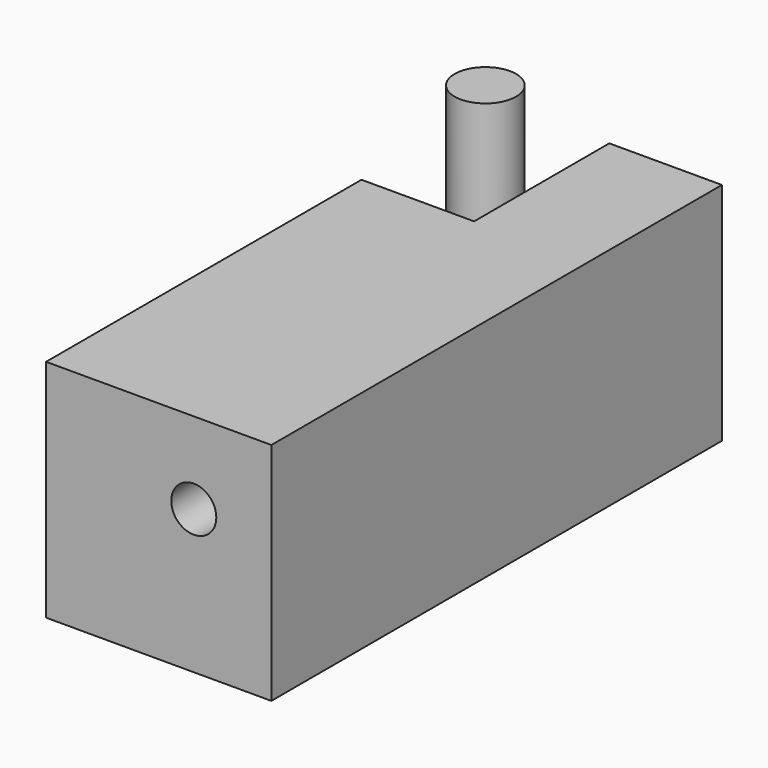
from build123d import *

# Parameters (mm, degrees)
F0_W     = 100
F0_H     = 250
F1_DEPTH = 100
F2_W     = 100
F2_H     = 150
F3_DEPTH = 70
F4_R     = 14.59155
F5_DEPTH = 108
F7_D     = 20
F8_R     = 13.653747
F9_DEPTH = 99.8


with BuildPart() as f1:
    # F0 (on Top) → F1 (new body)
    with BuildSketch(Plane.XY):
        Rectangle(F0_W, F0_H)
        Rectangle(F0_W, F0_H)
    extrude(amount=F1_DEPTH)

    # F2 (on face) → F3 (cut)
    with BuildSketch(Plane.XY.offset(100)):
        with Locations((-50, 125)):
            Rectangle(F2_W, F2_H)
    extrude(amount=-F3_DEPTH, mode=Mode.SUBTRACT)

    # F4 (on face) → F5 (cut)
    with BuildSketch(Plane(origin=(0, 50, 0), x_dir=(-1, 0, 0), z_dir=(0, 1, 0))):
        with Locations((31.880736, 70.243917)):
            Circle(F4_R)
    extrude(amount=-F5_DEPTH, mode=Mode.SUBTRACT)

    # F7 (through all)
    with Locations(Plane(origin=(0, 125, 0), x_dir=(-1, 0, 0), z_dir=(0, 1, 0))):
        with Locations((-15.563748, 63.727073)):
            Hole(F7_D / 2)


with BuildPart() as f9:
    # F8 (on face) → F9 (new body)
    with BuildSketch(Plane.XY.offset(30)):
        with Locations((-25, 87.5)):
            Circle(F8_R)
    extrude(amount=F9_DEPTH)


solid = Compound([f1.part, f9.part])
